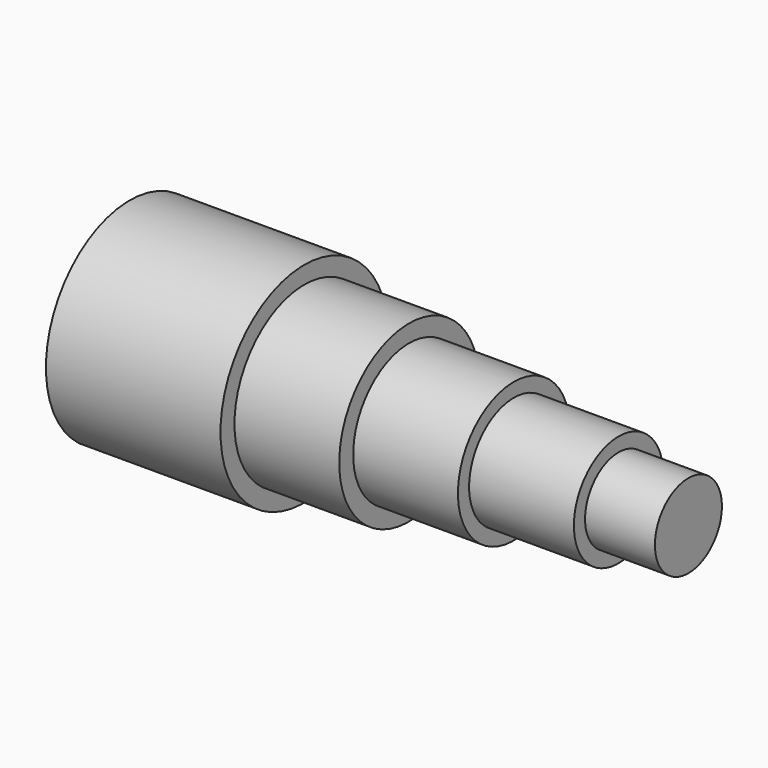
from build123d import *

# Parameters (mm, degrees)
F0_W = 10
F0_H = 6


with BuildPart() as f1:
    # F0 (on Top) → F1 (revolve)
    with BuildSketch(Plane.XY):
        Polygon((0, 0), (25, 0), (25, 12.5), (25, 15), (0, 15), align=None)
        Polygon((25, 0), (40, 0), (40, 10), (40, 12.5), (25, 12.5), align=None)
        Polygon((40, 0), (55, 0), (55, 8), (55, 10), (40, 10), align=None)
        Polygon((55, 0), (70, 0), (70, 6), (70, 8), (55, 8), align=None)
        with Locations((75, 3)):
            Rectangle(F0_W, F0_H)
    revolve(axis=Axis((32.5, 0, 0), (1, 0, 0)))


solid = f1.part
